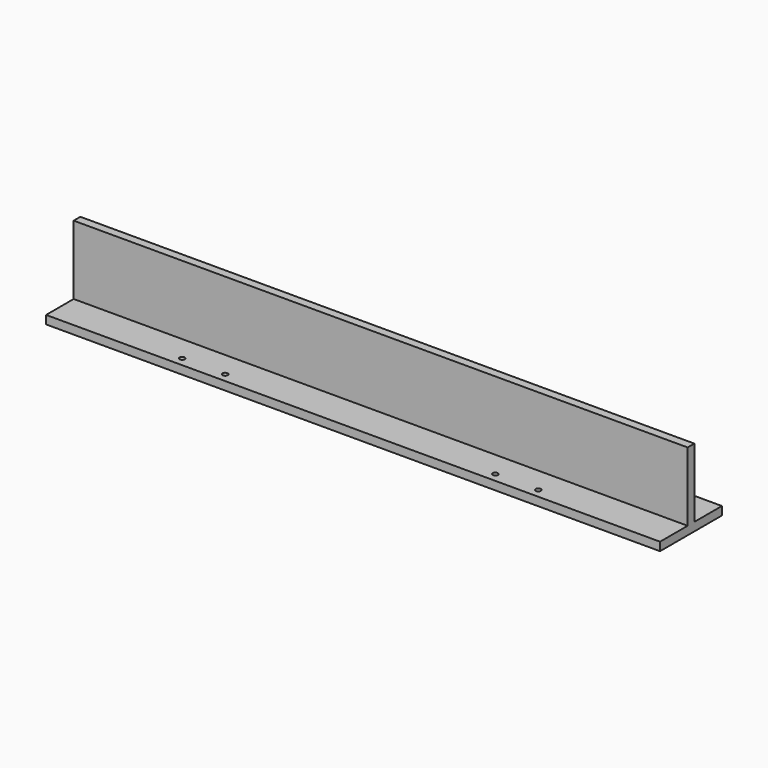
from build123d import *

# Parameters (mm, degrees)
F1_DEPTH = 952.5
F2_R     = 4
F3_DEPTH = 120.001


with BuildPart() as f1:
    # F0 (on Right) → F1 (new body)
    with BuildSketch(Plane.YZ):
        Polygon((-60, 13), (-60, 0), (60, 0), (60, 13), (6.5, 13), (6.5, 120), (-6.5, 120), (-6.5, 13), align=None)
    extrude(amount=-F1_DEPTH)

    # F2 (on Top) → F3 (cut, through all)
    with BuildSketch(Plane.XY):
        with Locations((-200, -46.0375)):
            Circle(F2_R)
        with Locations((-200, 46.0375)):
            Circle(F2_R)
        with Locations((-266.675, 46.0375)):
            Circle(F2_R)
        with Locations((-266.675, -46.0375)):
            Circle(F2_R)
        with Locations((-752.5, -46.0375)):
            Circle(F2_R)
        with Locations((-685.825, -46.0375)):
            Circle(F2_R)
        with Locations((-685.825, 46.0375)):
            Circle(F2_R)
        with Locations((-752.5, 46.0375)):
            Circle(F2_R)
    extrude(amount=F3_DEPTH, mode=Mode.SUBTRACT)


solid = f1.part
